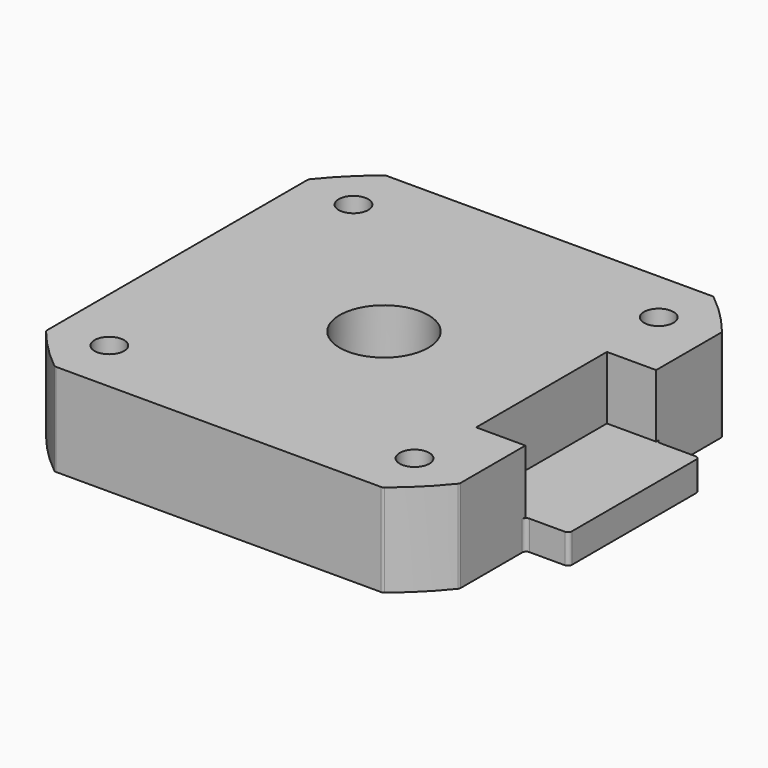
from build123d import *

# Parameters (mm, degrees)
SKETCH_R        = 4.5
SKETCH_R_2      = 1.5
PAD_DEPTH       = 9.4
SKETCH002_R     = 3.2
POCKET_DEPTH    = 3
SKETCH004_W     = 16.6
SKETCH004_H     = 6.4
POCKET002_DEPTH = 10
FILLET_R        = 0.4


with BuildPart() as part:
    # Sketch → Pad (new body)
    with BuildSketch(Plane.XY):
        with BuildLine():
            ThreePointArc((-16.650526, 21), (-18.950462, 18.950462), (-21, 16.650526))
            Line((-21, 16.650526), (-21, -16.650526))
            ThreePointArc((-21, -16.650526), (-18.950462, -18.950462), (-16.650526, -21))
            Line((-16.650526, -21), (16.650526, -21))
            ThreePointArc((16.650526, -21), (18.950462, -18.950462), (21, -16.650526))
            Line((21, -8.3), (21, -16.650526))
            Line((25.4, -8.3), (21, -8.3))
            Line((25.4, 8.3), (25.4, -8.3))
            Line((21, 8.3), (25.4, 8.3))
            Line((21, 16.650526), (21, 8.3))
            ThreePointArc((21, 16.650526), (18.950462, 18.950462), (16.650526, 21))
            Line((-16.650526, 21), (16.650526, 21))
        make_face()
        Circle(SKETCH_R, mode=Mode.SUBTRACT)
        with Locations((-15.5, 15.5)):
            Circle(SKETCH_R_2, mode=Mode.SUBTRACT)
        with Locations((15.5, 15.5)):
            Circle(SKETCH_R_2, mode=Mode.SUBTRACT)
        with Locations((15.5, -15.5)):
            Circle(SKETCH_R_2, mode=Mode.SUBTRACT)
        with Locations((-15.5, -15.5)):
            Circle(SKETCH_R_2, mode=Mode.SUBTRACT)
    extrude(amount=PAD_DEPTH)

    # Sketch002 → Pocket (cut)
    with BuildSketch(Plane.XY):
        with Locations((-15.5, 15.5)):
            Circle(SKETCH002_R)
        with Locations((15.5, 15.5)):
            Circle(SKETCH002_R)
        with Locations((15.5, -15.5)):
            Circle(SKETCH002_R)
        with Locations((-15.5, -15.5)):
            Circle(SKETCH002_R)
    extrude(amount=POCKET_DEPTH, mode=Mode.SUBTRACT)

    # Sketch004 → Pocket002 (cut)
    with BuildSketch(Plane.YZ.offset(26)):
        with Locations((0, 6.2)):
            Rectangle(SKETCH004_W, SKETCH004_H)
    extrude(amount=-POCKET002_DEPTH, mode=Mode.SUBTRACT)

    # Fillet
    fillet_edges = [part.edges().sort_by_distance(p)[0] for p in [
        (21, -8.3, 1.5),
        (21, 8.3, 1.5),
        (25.4, 8.3, 1.5),
        (25.4, -8.3, 1.5),
        (21, -16.650526, 4.7),
        (16.650526, -21, 4.7),
        (-16.650526, -21, 4.7),
        (-21, -16.650526, 4.7),
        (-21, 16.650526, 4.7),
        (-16.650526, 21, 4.7),
        (16.650526, 21, 4.7),
        (21, 16.650526, 4.7),
        (-18.7, 15.5, 0),
        (-18.7, -15.5, 0),
        (12.3, -15.5, 0),
        (12.3, 15.5, 0),
    ]]
    fillet(fillet_edges, radius=FILLET_R)


solid = part.part
